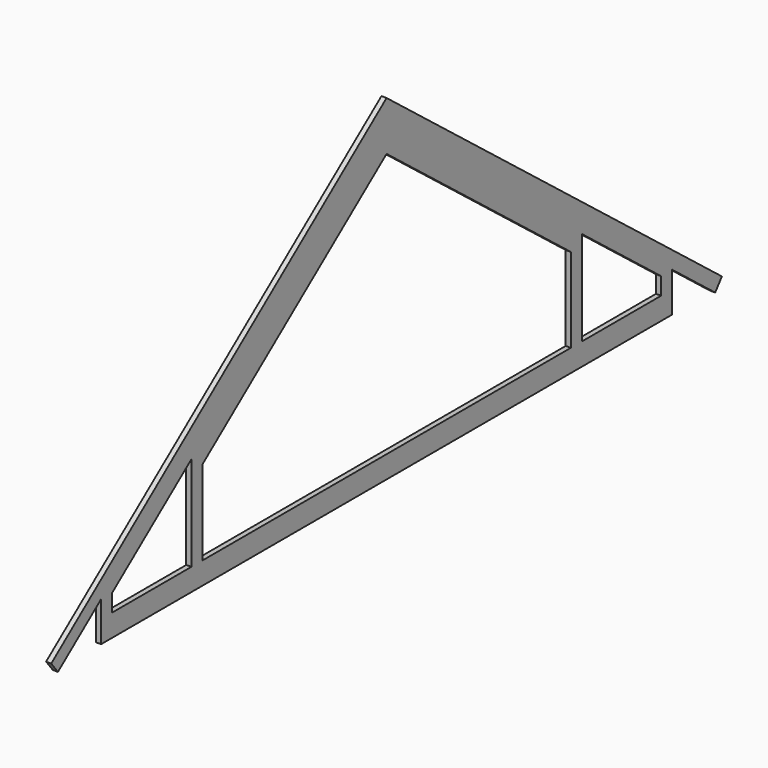
from build123d import *

# Parameters (mm, degrees)
F1_DEPTH = 45


with BuildPart() as f1:
    # F0 (on Right) → F1 (new body)
    with BuildSketch(Plane.YZ):
        Polygon((7072.6329036231, -1831.0830527794), (7072.6329036231, -2078.5416047186), (9092.6329036231, -3656.7385702622), (9212.6329036231, -3750.492845443), (10080.8127102119, -4428.7892495542), (10202.6329036231, -4428.7892495542), (10675.4393557871, -4798.1861347496), (10749.3187328262, -4703.6248443168), (10202.6329036231, -4276.5070637455), align=None)
        Polygon((7072.6329036231, -2078.5416047186), (7072.6329036231, -2262.5492459041), (9092.6329036231, -3840.7462114477), (9092.6329036231, -3656.7385702622), align=None)
        Polygon((3469.826451459, -4798.1861347496), (3942.6329036231, -4428.7892495542), (4064.4530970343, -4428.7892495542), (4932.6329036231, -3750.492845443), (5052.6329036231, -3656.7385702622), (7072.6329036231, -2078.5416047186), (7072.6329036231, -1831.0830527794), (3942.6329036231, -4276.5070637455), (3395.9470744199, -4703.6248443168), align=None)
        Polygon((5052.6329036231, -3840.7462114477), (7072.6329036231, -2262.5492459041), (7072.6329036231, -2078.5416047186), (5052.6329036231, -3656.7385702622), align=None)
        Polygon((4932.6329036231, -4581.5070637455), (5052.6329036231, -4581.5070637455), (5052.6329036231, -3840.7462114477), (5052.6329036231, -3656.7385702622), (4932.6329036231, -3750.492845443), align=None)
        Polygon((3942.6329036231, -4428.7892495542), (3942.6329036231, -4581.5070637455), (4062.6329036231, -4581.5070637455), (4062.6329036231, -4430.2113405038), (4062.6868913116, -4430.1691606988), (4064.4530970343, -4428.7892495542), align=None)
        Polygon((3942.6329036231, -4581.5070637455), (3942.6329036231, -4776.5070637455), (7072.6329036231, -4776.5070637455), (7072.6329036231, -4581.5070637455), (5052.6329036231, -4581.5070637455), (4932.6329036231, -4581.5070637455), (4062.6329036231, -4581.5070637455), align=None)
        Polygon((7072.6329036231, -4581.5070637455), (7072.6329036231, -4776.5070637455), (10202.6329036231, -4776.5070637455), (10202.6329036231, -4581.5070637455), (10082.6329036231, -4581.5070637455), (9212.6329036231, -4581.5070637455), (9092.6329036231, -4581.5070637455), align=None)
        Polygon((9092.6329036231, -3840.7462114477), (9092.6329036231, -4581.5070637455), (9212.6329036231, -4581.5070637455), (9212.6329036231, -3750.492845443), (9092.6329036231, -3656.7385702622), align=None)
        Polygon((10082.6329036231, -4581.5070637455), (10202.6329036231, -4581.5070637455), (10202.6329036231, -4428.7892495542), (10080.8127102119, -4428.7892495542), (10082.5789159346, -4430.1691606988), (10082.6329036231, -4430.2113405038), align=None)
    extrude(amount=F1_DEPTH)


solid = f1.part
